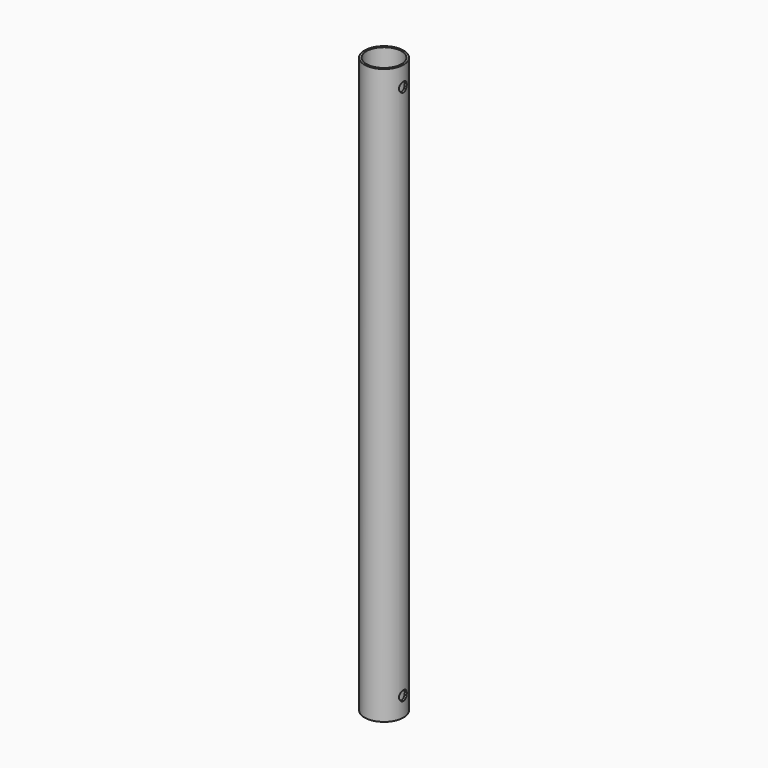
from build123d import *

# Parameters (mm, degrees)
F0_R          = 12.7
F1_DEPTH      = 374.65
F4_DEPTH      = 25.4
F4_DEPTH_BACK = 25.4
F6_DEPTH      = 12.7
F6_DEPTH_BACK = 25.4
F7_R          = 11.43
F8_DEPTH      = 603.25
F10_DEPTH     = 25.4


with BuildPart() as f1:
    # F0 (on Top) → F1 (new body)
    with BuildSketch(Plane.XY):
        Circle(F0_R)
    extrude(amount=F1_DEPTH)

    # F3 (on offset) → F4 (cut, two sides)
    with BuildSketch(Plane.YZ.offset(6.35)) as f4_sk:
        with BuildLine():
            ThreePointArc((0, 15.875), (-3.175, 12.7), (0, 9.525))
            Line((0, 9.525), (0, 12.7))
            Line((0, 12.7), (0, 15.875))
        make_face()
        with BuildLine():
            Line((0, 12.7), (0, 9.525))
            ThreePointArc((0, 9.525), (2.245064, 10.454936), (3.175, 12.7))
            ThreePointArc((3.175, 12.7), (2.245064, 14.945064), (0, 15.875))
            Line((0, 15.875), (0, 12.7))
        make_face()
    extrude(amount=F4_DEPTH, mode=Mode.SUBTRACT)
    extrude(f4_sk.sketch, amount=-F4_DEPTH_BACK, mode=Mode.SUBTRACT)

    # F5 (on offset) → F6 (cut, two sides)
    with BuildSketch(Plane.YZ.offset(6.35)) as f6_sk:
        with BuildLine():
            ThreePointArc((0, 358.775), (2.245064, 359.704936), (3.175, 361.95))
            ThreePointArc((3.175, 361.95), (-2.245064, 364.195064), (0, 358.775))
        make_face()
    extrude(amount=F6_DEPTH, mode=Mode.SUBTRACT)
    extrude(f6_sk.sketch, amount=-F6_DEPTH_BACK, mode=Mode.SUBTRACT)

    # F7 (on face) → F8 (cut)
    with BuildSketch(Plane(origin=(0, 0, 0), x_dir=(1, 0, 0), z_dir=(0, 0, -1))):
        Circle(F7_R)
    extrude(amount=-F8_DEPTH, mode=Mode.SUBTRACT)

    # F9 (on Front) → F10 (cut)
    with BuildSketch(Plane.XZ):
        with BuildLine():
            ThreePointArc((0, 28.575), (-3.175, 25.4), (0, 22.225))
            Line((0, 22.225), (0, 25.4))
            Line((0, 25.4), (0, 28.575))
        make_face()
        with BuildLine():
            ThreePointArc((3.175, 203.2), (-2.245064, 205.445064), (0, 200.025))
            ThreePointArc((0, 200.025), (2.245064, 200.954936), (3.175, 203.2))
        make_face()
        with BuildLine():
            ThreePointArc((0, 180.975), (-3.175, 177.8), (0, 174.625))
            Line((0, 174.625), (0, 177.8))
            Line((0, 177.8), (0, 180.975))
        make_face()
        with BuildLine():
            Line((0, 177.8), (0, 174.625))
            ThreePointArc((0, 174.625), (2.245064, 175.554936), (3.175, 177.8))
            ThreePointArc((3.175, 177.8), (2.245064, 180.045064), (0, 180.975))
            Line((0, 180.975), (0, 177.8))
        make_face()
        with BuildLine():
            ThreePointArc((0, 155.575), (-3.175, 152.4), (0, 149.225))
            Line((0, 149.225), (0, 152.4))
            Line((0, 152.4), (0, 155.575))
        make_face()
        with BuildLine():
            Line((0, 152.4), (0, 149.225))
            ThreePointArc((0, 149.225), (2.245064, 150.154936), (3.175, 152.4))
            ThreePointArc((3.175, 152.4), (2.245064, 154.645064), (0, 155.575))
            Line((0, 155.575), (0, 152.4))
        make_face()
        with BuildLine():
            ThreePointArc((0, 130.175), (-3.175, 127), (0, 123.825))
            Line((0, 123.825), (0, 127))
            Line((0, 127), (0, 130.175))
        make_face()
        with BuildLine():
            Line((0, 127), (0, 123.825))
            ThreePointArc((0, 123.825), (2.245064, 124.754936), (3.175, 127))
            ThreePointArc((3.175, 127), (2.245064, 129.245064), (0, 130.175))
            Line((0, 130.175), (0, 127))
        make_face()
        with BuildLine():
            ThreePointArc((0, 104.775), (-3.175, 101.6), (0, 98.425))
            Line((0, 98.425), (0, 101.6))
            Line((0, 101.6), (0, 104.775))
        make_face()
        with BuildLine():
            Line((0, 101.6), (0, 98.425))
            ThreePointArc((0, 98.425), (2.245064, 99.354936), (3.175, 101.6))
            ThreePointArc((3.175, 101.6), (2.245064, 103.845064), (0, 104.775))
            Line((0, 104.775), (0, 101.6))
        make_face()
        with BuildLine():
            ThreePointArc((0, 79.375), (-3.175, 76.2), (0, 73.025))
            Line((0, 73.025), (0, 76.2))
            Line((0, 76.2), (0, 79.375))
        make_face()
        with BuildLine():
            Line((0, 76.2), (0, 73.025))
            ThreePointArc((0, 73.025), (2.245064, 73.954936), (3.175, 76.2))
            ThreePointArc((3.175, 76.2), (2.245064, 78.445064), (0, 79.375))
            Line((0, 79.375), (0, 76.2))
        make_face()
        with BuildLine():
            ThreePointArc((0, 53.975), (-3.175, 50.8), (0, 47.625))
            Line((0, 47.625), (0, 50.8))
            Line((0, 50.8), (0, 53.975))
        make_face()
        with BuildLine():
            Line((0, 50.8), (0, 47.625))
            ThreePointArc((0, 47.625), (2.245064, 48.554936), (3.175, 50.8))
            ThreePointArc((3.175, 50.8), (2.245064, 53.045064), (0, 53.975))
            Line((0, 53.975), (0, 50.8))
        make_face()
        with BuildLine():
            Line((0, 25.4), (0, 22.225))
            ThreePointArc((0, 22.225), (2.245064, 23.154936), (3.175, 25.4))
            ThreePointArc((3.175, 25.4), (2.245064, 27.645064), (0, 28.575))
            Line((0, 28.575), (0, 25.4))
        make_face()
    extrude(amount=-F10_DEPTH, mode=Mode.SUBTRACT)


solid = f1.part
